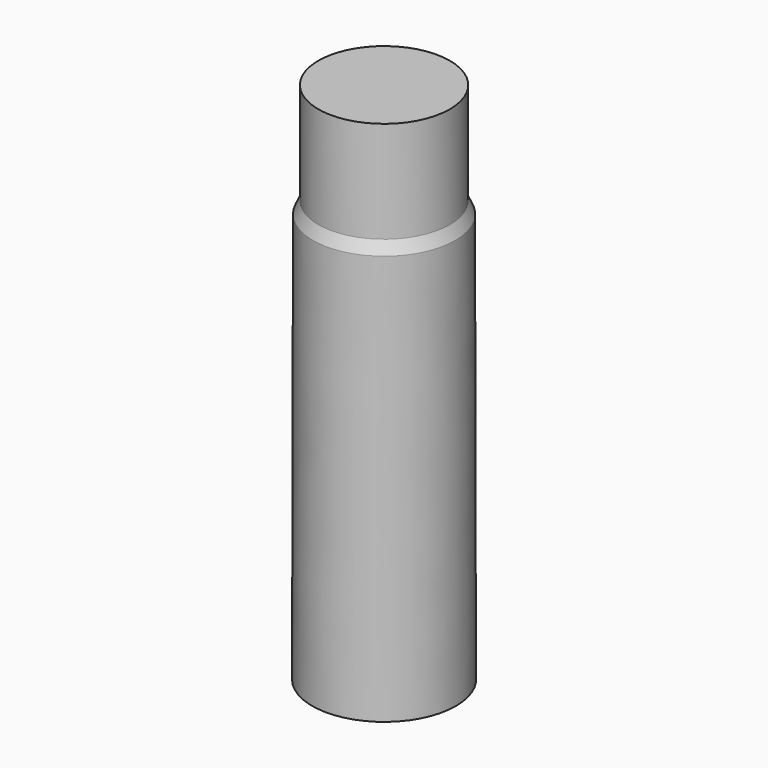
from build123d import *

# Parameters (mm, degrees)
F0_W = 4.367
F0_H = 6.75


with BuildPart() as f1:
    # F0 (on Front) → F1 (revolve)
    with BuildSketch(Plane.XZ):
        Polygon((0, 28), (0, 27.2), (4.727, 27.2), (4.367, 28), align=None)
        with Locations((2.1835, 31.375)):
            Rectangle(F0_W, F0_H)
        Polygon((0, 27.2), (0, 0), (4.775, 0), (4.727, 27.2), align=None)
    revolve(axis=Axis((0, 0, 17.375), (0, 0, -1)))


solid = f1.part
